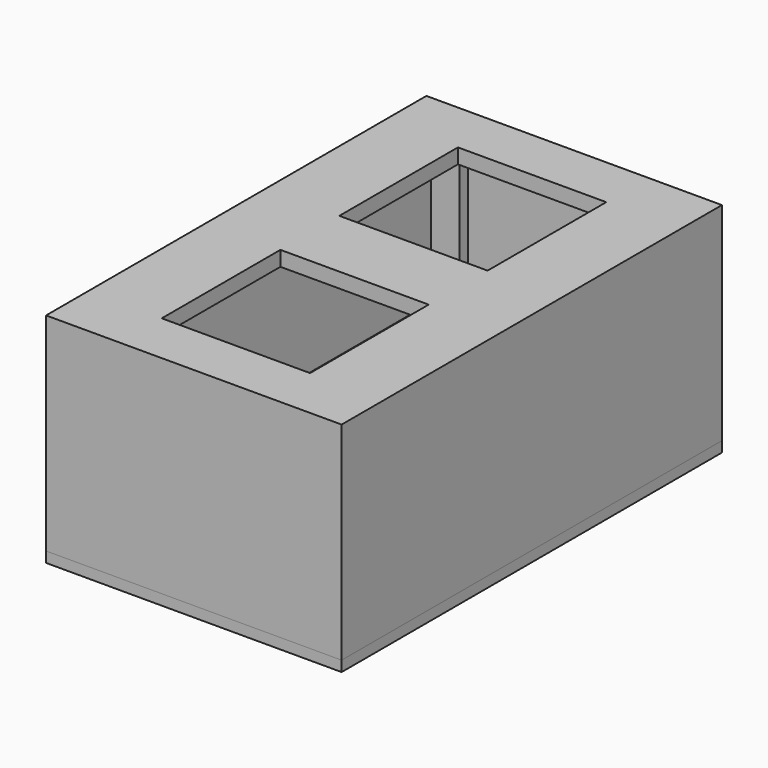
from build123d import *

# Parameters (mm, degrees)
SKETCH_W      = 28.1
SKETCH_H      = 1
PAD_DEPTH     = 45.2
PAD001_DEPTH  = 18.1
PAD002_DEPTH  = 5.4
PAD003_DEPTH  = 6.4
SKETCH008_W   = 12.4
SKETCH008_H   = 33.8
PAD006_DEPTH  = 4
SKETCH005_W   = 28.1
SKETCH005_H   = 45.2
SKETCH005_W_2 = 14.1
SKETCH005_H_2 = 14.1
PAD005_DEPTH  = 1.42
PAD007_DEPTH  = 18.3
SKETCH009_W   = 7.6
SKETCH009_H   = 1
PAD008_DEPTH  = 10.2


with BuildPart() as base:
    # Sketch → Pad (new body)
    with BuildSketch(Plane.XZ):
        with Locations((14.05, 0.5)):
            Rectangle(SKETCH_W, SKETCH_H)
    extrude(amount=PAD_DEPTH)

    # Sketch001 (on Face1 of Pad) → Pad001 (join)
    with BuildSketch(Plane.XY.offset(1)):
        Polygon((1.1, -1.1), (1.1, -44.1), (27, -44.1), (27, -1.1), (23.25, -1.1), (23.25, -2.1), (26, -2.1), (26, -43.1), (2.1, -43.1), (2.1, -2.1), (4.85, -2.1), (4.85, -1.1), align=None)
    extrude(amount=PAD001_DEPTH)

    # Sketch002 (on Face1 of Pad001) → Pad002 (join)
    with BuildSketch(Plane(origin=(0, 0, 1), x_dir=(-1, 0, 0), z_dir=(0, 0, 1))):
        Polygon((-4.85, 2.1), (-23.25, 2.1), (-23.25, 1.1), (-17.8, 1.1), (-17.8, 0), (-10.3, 0), (-10.3, 1.1), (-4.85, 1.1), align=None)
    extrude(amount=PAD002_DEPTH)

    # Sketch003 → Pad003 (join)
    with BuildSketch(Plane.XY):
        Polygon((4.85, -2.1), (3.85, -2.1), (3.85, -36.9), (24.25, -36.9), (24.25, -2.1), (23.25, -2.1), (23.25, -35.9), (4.85, -35.9), align=None)
    extrude(amount=PAD003_DEPTH)

    # Sketch008 (on Face30 of Pad003) → Pad006 (join)
    with BuildSketch(Plane.XY.offset(1)):
        with Locations((14.05, -19)):
            Rectangle(SKETCH008_W, SKETCH008_H)
    extrude(amount=PAD006_DEPTH)


with BuildPart() as top:
    # Sketch005 → Pad005 (new body)
    with BuildSketch(Plane.XY):
        with Locations((14.05, -22.6)):
            Rectangle(SKETCH005_W, SKETCH005_H)
        with Locations((14.05, -33.15)):
            Rectangle(SKETCH005_W_2, SKETCH005_H_2, mode=Mode.SUBTRACT)
        with Locations((14.05, -12.05)):
            Rectangle(SKETCH005_W_2, SKETCH005_H_2, mode=Mode.SUBTRACT)
    extrude(amount=PAD005_DEPTH)

    # Sketch007 (on Face13 of Pad005) → Pad007 (join)
    with BuildSketch(Plane.XY):
        Polygon((28.1, 0), (28.1, -45.2), (0, -45.2), (0, 0), (10.25, 0), (10.25, -1), (1, -1), (1, -44.2), (27.1, -44.2), (27.1, -1), (17.85, -1), (17.85, 0), align=None)
    extrude(amount=-PAD007_DEPTH)

    # Sketch009 (on Face5 of Pad007) → Pad008 (join)
    with BuildSketch(Plane.XY):
        with Locations((14.05, -0.5)):
            Rectangle(SKETCH009_W, SKETCH009_H)
    extrude(amount=-PAD008_DEPTH)


with BuildPart() as top_1:
    # Body002 placement: moved
    add(top.part.moved(Location((0, 0, 19.3))))


solid = Compound([base.part, top_1.part])
